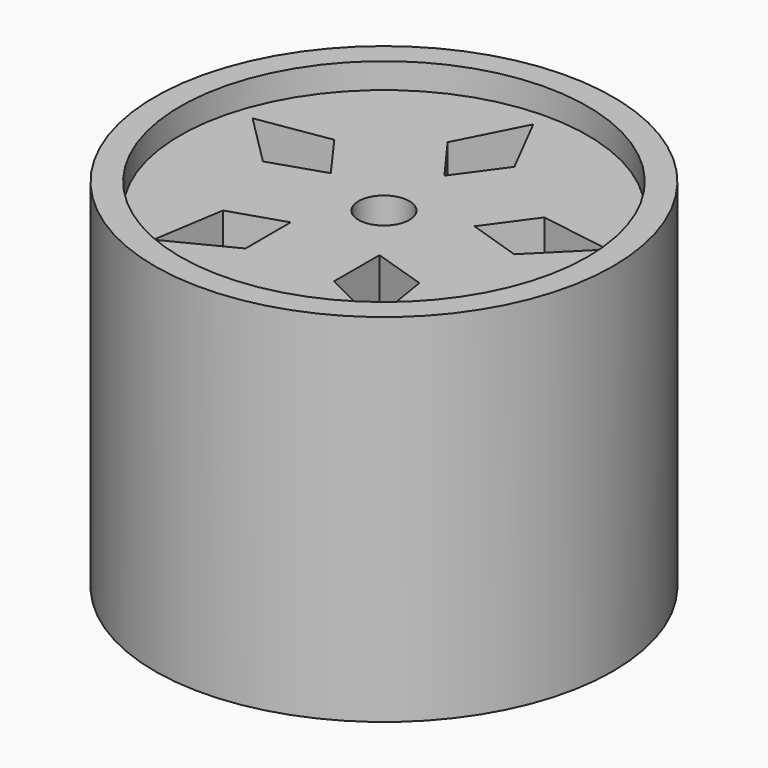
from build123d import *

# Parameters (mm, degrees)
F0_R     = 2
F0_R_2   = 0.25
F1_DEPTH = 1.5
F0_R_3   = 2.25
F2_DEPTH = 1.75


with BuildPart() as f1:
    # F0 (on Top) → F1 (new body, symmetric)
    with BuildSketch(Plane.XY):
        Circle(F0_R)
        Polygon((-0.43483, -1.155508), (-1.077198, -1.482635), (-0.964584, -0.77062), (-0.436063, -0.600189), align=None, mode=Mode.SUBTRACT)
        Polygon((0.964584, -0.77062), (1.077198, -1.482635), (0.43483, -1.155508), (0.436063, -0.600189), align=None, mode=Mode.SUBTRACT)
        Polygon((-1.233324, 0.056476), (-1.742942, 0.566316), (-1.030976, 0.679239), (-0.705564, 0.229252), align=None, mode=Mode.SUBTRACT)
        Circle(F0_R_2, mode=Mode.SUBTRACT)
        Polygon((1.030976, 0.679239), (1.742942, 0.566316), (1.233324, 0.056476), (0.705564, 0.229252), align=None, mode=Mode.SUBTRACT)
        Polygon((-0.327406, 1.190413), (0, 1.832638), (0.327406, 1.190413), (0, 0.741874), align=None, mode=Mode.SUBTRACT)
    extrude(amount=F1_DEPTH, both=True)

    # F0 (on Top) → F2 (join, symmetric)
    with BuildSketch(Plane.XY):
        Circle(F0_R_3)
        Circle(F0_R, mode=Mode.SUBTRACT)
    extrude(amount=F2_DEPTH, both=True)


solid = f1.part
